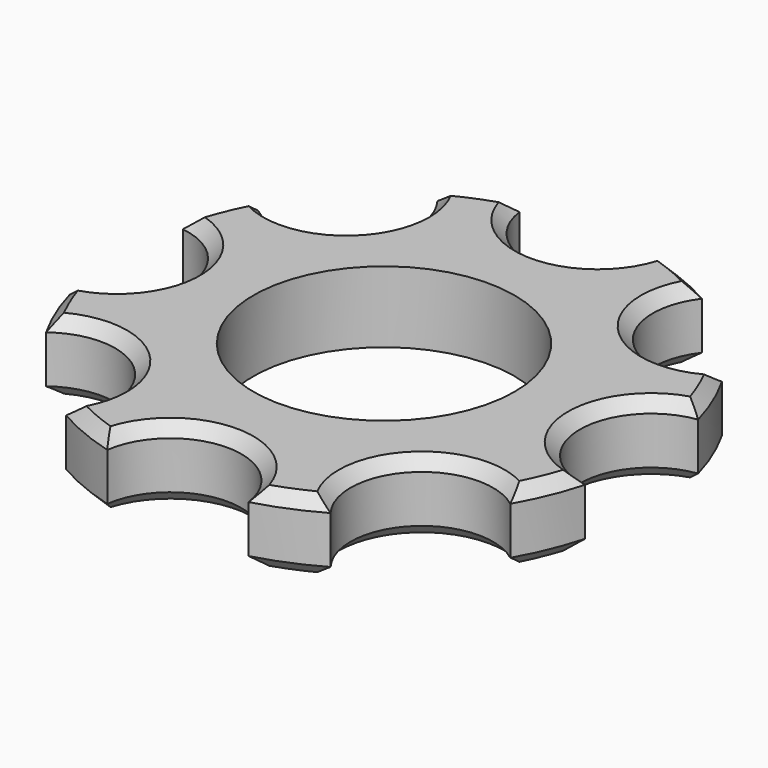
from build123d import *

# Parameters (mm, degrees)
F0_R     = 11
F1_DEPTH = 6
F2_SIZE  = 1


with BuildPart() as f1:
    # F0 (on Top) → F1 (new body)
    with BuildSketch(Plane.XY):
        with BuildLine():
            ThreePointArc((-11.139458, 19.548976), (-11.667262, 11.667262), (-19.548976, 11.139458))
            ThreePointArc((-19.548976, 11.139458), (-20.787289, 8.610377), (-21.7, 5.946427))
            ThreePointArc((-21.7, 5.946427), (-16.5, 0), (-21.7, -5.946427))
            ThreePointArc((-21.7, -5.946427), (-20.787289, -8.610377), (-19.548976, -11.139458))
            ThreePointArc((-19.548976, -11.139458), (-11.667262, -11.667262), (-11.139458, -19.548976))
            ThreePointArc((-11.139458, -19.548976), (-8.610377, -20.787289), (-5.946427, -21.7))
            ThreePointArc((-5.946427, -21.7), (0, -16.5), (5.946427, -21.7))
            ThreePointArc((5.946427, -21.7), (8.610377, -20.787289), (11.139458, -19.548976))
            ThreePointArc((11.139458, -19.548976), (11.667262, -11.667262), (19.548976, -11.139458))
            ThreePointArc((19.548976, -11.139458), (20.787289, -8.610377), (21.7, -5.946427))
            ThreePointArc((21.7, -5.946427), (16.5, 0), (21.7, 5.946427))
            ThreePointArc((21.7, 5.946427), (20.787289, 8.610377), (19.548976, 11.139458))
            ThreePointArc((19.548976, 11.139458), (11.667262, 11.667262), (11.139458, 19.548976))
            ThreePointArc((11.139458, 19.548976), (8.610377, 20.787289), (5.946427, 21.7))
            ThreePointArc((5.946427, 21.7), (0, 16.5), (-5.946427, 21.7))
            ThreePointArc((-5.946427, 21.7), (-8.610377, 20.787289), (-11.139458, 19.548976))
        make_face()
        Circle(F0_R, mode=Mode.SUBTRACT)
    extrude(amount=F1_DEPTH)

    # F2
    f2_edges = [f1.edges().sort_by_distance(p)[0] for p in [
        (-16.5, 0, 0),
        (-20.787289, 8.610377, 0),
        (-11.667262, 11.667262, 0),
        (-8.610377, 20.787289, 0),
        (0, 16.5, 0),
        (8.610377, 20.787289, 0),
        (11.667262, 11.667262, 0),
        (20.787289, 8.610377, 0),
        (16.5, 0, 0),
        (11.667262, -11.667262, 0),
        (20.787289, -8.610377, 0),
        (8.610377, -20.787289, 0),
        (0, -16.5, 0),
        (-8.610377, -20.787289, 0),
        (-11.667262, -11.667262, 0),
        (-20.787289, -8.610377, 0),
        (0, 16.5, 6),
        (-11.667262, 11.667262, 6),
        (-8.610377, 20.787289, 6),
        (8.610377, 20.787289, 6),
        (11.667262, 11.667262, 6),
        (20.787289, 8.610377, 6),
        (16.5, 0, 6),
        (20.787289, -8.610377, 6),
        (11.667262, -11.667262, 6),
        (0, -16.5, 6),
        (8.610377, -20.787289, 6),
        (-8.610377, -20.787289, 6),
        (-11.667262, -11.667262, 6),
        (-20.787289, -8.610377, 6),
        (-16.5, 0, 6),
        (-20.787289, 8.610377, 6),
    ]]
    chamfer(f2_edges, length=F2_SIZE)


solid = f1.part
